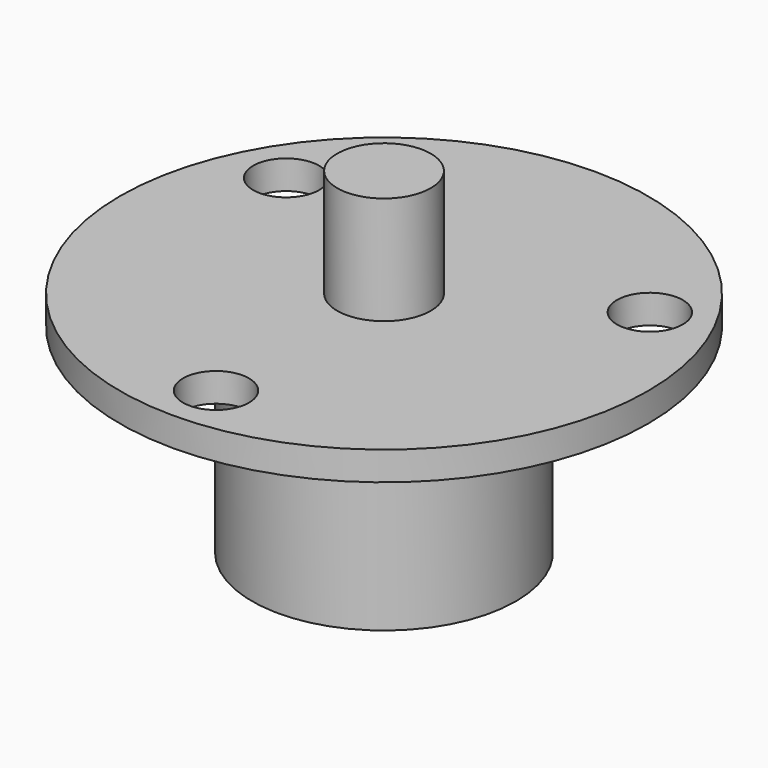
from build123d import *

# Parameters (mm, degrees)
F0_R     = 11
F1_DEPTH = 16.6
F2_R     = 22
F2_R_2   = 11
F3_DEPTH = 2.4
F4_R     = 3.9
F5_DEPTH = 9
F6_R     = 2.75
F7_DEPTH = 25


with BuildPart() as f1:
    # F0 (on Top) → F1 (new body)
    with BuildSketch(Plane.XY):
        Circle(F0_R)
    extrude(amount=F1_DEPTH)

    # F2 (on face) → F3 (join)
    with BuildSketch(Plane.XY.offset(16.6)):
        Circle(F2_R)
        Circle(F2_R_2, mode=Mode.SUBTRACT)
        Circle(F2_R_2)
    extrude(amount=F3_DEPTH)

    # F4 (on face) → F5 (join)
    with BuildSketch(Plane.XY.offset(19)):
        Circle(F4_R)
    extrude(amount=F5_DEPTH)

    # F6 (on face) → F7 (cut)
    with BuildSketch(Plane.XY.offset(19)):
        with Locations((-15.155445, 8.75)):
            Circle(F6_R)
        with Locations((15.155445, 8.75)):
            Circle(F6_R)
        with Locations((0, -17.5)):
            Circle(F6_R)
    extrude(amount=-F7_DEPTH, mode=Mode.SUBTRACT)


solid = f1.part
